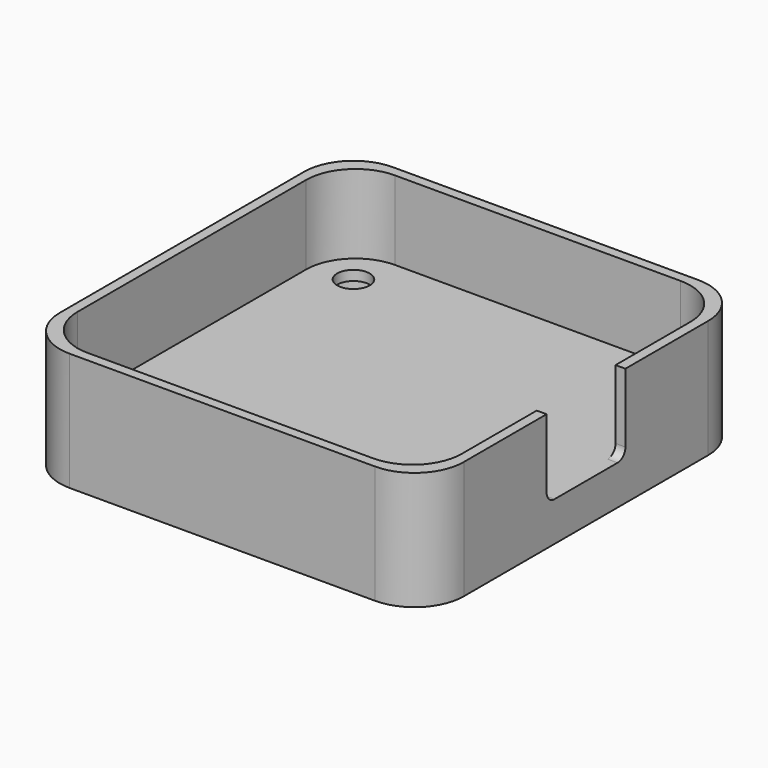
from build123d import *

# Parameters (mm, degrees)
F0_W           = 41
F0_H           = 41
F1_DEPTH       = 12
F2_D           = 3.3
F2_DEPTH       = 20
F2_CBORE_D     = 6.5
F2_CBORE_DEPTH = 3
F2_TIP         = 0.9914200214
F3_W           = 39
F3_H           = 39
F4_DEPTH       = 8
F5_R           = 5
F6_W           = 10
F6_H           = 8
F7_DEPTH       = 1
F8_R           = 1


with BuildPart() as f1:
    # F0 (on Top) → F1 (new body)
    with BuildSketch(Plane.XY):
        with Locations((-7.3711453006, 4.3136782655)):
            Rectangle(F0_W, F0_H)
    extrude(amount=F1_DEPTH)

    # F2
    with Locations(Plane(origin=(0, 0, 0), x_dir=(1, 0, 0), z_dir=(0, 0, -1))):
        with Locations((8.1288546994, -19.8136782655), (-22.8711453006, -19.8136782655), (-22.8711453006, 11.1863217345), (8.1288546994, 11.1863217345)):
            CounterBoreHole(F2_D / 2, F2_CBORE_D / 2, F2_CBORE_DEPTH, depth=F2_DEPTH)
            with Locations((0, 0, -(F2_DEPTH + F2_TIP / 2))):  # 118° drill point
                Cone(0, F2_D / 2, F2_TIP, mode=Mode.SUBTRACT)

    # F3 (on face) → F4 (cut)
    with BuildSketch(Plane.XY.offset(12)):
        with Locations((-7.3711453006, 4.3136782655)):
            Rectangle(F3_W, F3_H)
    extrude(amount=-F4_DEPTH, mode=Mode.SUBTRACT)

    # F5
    f5_edges = [f1.edges().sort_by_distance(p)[0] for p in [
        (13.128855, -16.186322, 6),
        (12.128855, -15.186322, 8),
        (-27.871145, -16.186322, 6),
        (-26.871145, -15.186322, 8),
        (-27.871145, 24.813678, 6),
        (-26.871145, 23.813678, 8),
        (13.128855, 24.813678, 6),
        (12.128855, 23.813678, 8),
    ]]
    fillet(f5_edges, radius=F5_R)

    # F6 (on face) → F7 (cut, through all)
    with BuildSketch(Plane.YZ.offset(13.1288546994)):
        with Locations((4.3136782655, 8)):
            Rectangle(F6_W, F6_H)
    extrude(amount=-F7_DEPTH, mode=Mode.SUBTRACT)

    # F8
    f8_edges = [f1.edges().sort_by_distance(p)[0] for p in [
        (12.628855, 9.313678, 4),
        (12.628855, -0.686322, 4),
    ]]
    fillet(f8_edges, radius=F8_R)


solid = f1.part
